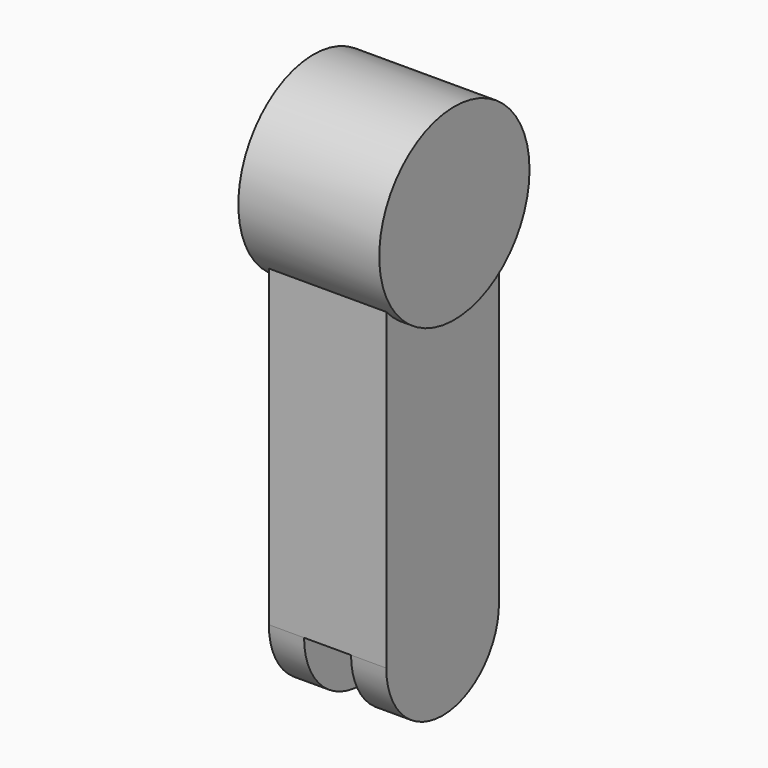
from build123d import *

# Parameters (mm, degrees)
F0_R     = 50.8
F1_DEPTH = 38.1
F2_W     = 63.5
F2_H     = 76.2
F3_DEPTH = 203.2
F4_R     = 38.1
F5_DEPTH = 19.05
F6_R     = 38.1
F7_DEPTH = 19.05


with BuildPart() as f1:
    # F0 (on Right) → F1 (new body, symmetric)
    with BuildSketch(Plane.YZ):
        Circle(F0_R)
    extrude(amount=F1_DEPTH, both=True)

    # F2 (on Top) → F3 (join)
    with BuildSketch(Plane.XY):
        Rectangle(F2_W, F2_H)
    extrude(amount=-F3_DEPTH)

    # F4 (on face) → F5 (join)
    with BuildSketch(Plane(origin=(-31.75, 0, 0), x_dir=(0, -1, 0), z_dir=(-1, 0, 0))):
        with Locations((0, -203.2)):
            Circle(F4_R)
    extrude(amount=-F5_DEPTH)

    # F6 (on face) → F7 (join)
    with BuildSketch(Plane.YZ.offset(31.75)):
        with Locations((0, -203.2)):
            Circle(F6_R)
    extrude(amount=-F7_DEPTH)


solid = f1.part
